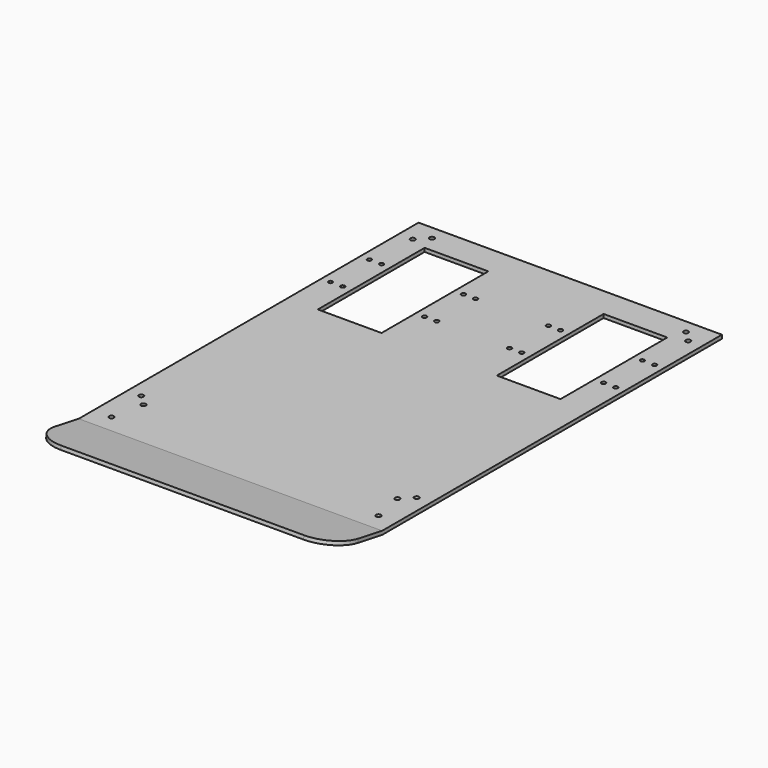
from build123d import *

# Parameters (mm, degrees)
F1_DEPTH = 500
F3_DEPTH = 23.191775822
F4_W     = 105
F4_H     = 220
F4_R     = 3.5
F4_R_2   = 4
F5_DEPTH = 6.001
F6_R     = 4
F7_DEPTH = 6.001


with BuildPart() as f1:
    # F0 (on Right) → F1 (new body)
    with BuildSketch(Plane.YZ):
        Polygon((700, 0), (0, 0), (-98.4807753012, 17.3648177667), (-99.5226643672, 11.4559712486), (0, -6), (700, -6), align=None)
    extrude(amount=F1_DEPTH)

    # F2 (on face) → F3 (cut, through all)
    with BuildSketch(Plane(origin=(0, 0, 0), x_dir=(1, 0, 0), z_dir=(0, 0.1736481777, 0.984807753))):
        with BuildLine():
            Line((0, -100), (50, -100))
            ThreePointArc((50, -100), (14.6446609407, -85.3553390593), (0, -50))
            Line((0, -50), (0, -100))
        make_face()
        with BuildLine():
            ThreePointArc((500, -50), (485.3553390593, -85.3553390593), (450, -100))
            Line((450, -100), (500, -100))
            Line((500, -100), (500, -50))
        make_face()
    extrude(amount=-F3_DEPTH, mode=Mode.SUBTRACT)

    # F4 (on face) → F5 (cut, through all)
    with BuildSketch(Plane.XY):
        with Locations((102.5, 540)):
            Rectangle(F4_W, F4_H)
        with Locations((35, 500)):
            Circle(F4_R)
        with Locations((15, 500)):
            Circle(F4_R)
        with Locations((35, 580)):
            Circle(F4_R)
        with Locations((15, 580)):
            Circle(F4_R)
        with Locations((190, 500)):
            Circle(F4_R)
        with Locations((170, 500)):
            Circle(F4_R)
        with Locations((190, 580)):
            Circle(F4_R)
        with Locations((170, 580)):
            Circle(F4_R)
        with Locations((465, 500)):
            Circle(F4_R)
        with Locations((485, 500)):
            Circle(F4_R)
        with Locations((485, 580)):
            Circle(F4_R)
        with Locations((310, 500)):
            Circle(F4_R)
        with Locations((465, 580)):
            Circle(F4_R)
        with Locations((330, 500)):
            Circle(F4_R)
        with Locations((330, 580)):
            Circle(F4_R)
        with Locations((310, 580)):
            Circle(F4_R)
        with Locations((397.5, 540)):
            Rectangle(F4_W, F4_H)
        with Locations((30, 30)):
            Circle(F4_R_2)
        with Locations((470, 30)):
            Circle(F4_R_2)
    extrude(amount=-F5_DEPTH, mode=Mode.SUBTRACT)

    # F6 (on face) → F7 (cut, through all)
    with BuildSketch(Plane.XY):
        with Locations((23, 100)):
            Circle(F6_R)
        with Locations((40.6847405975, 82.3152594025)):
            Circle(F6_R)
        with Locations((23, 659.3152594025)):
            Circle(F6_R)
        with Locations((40.6847405975, 677)):
            Circle(F6_R)
        with Locations((459.3152594025, 677)):
            Circle(F6_R)
        with Locations((477, 659.3152594025)):
            Circle(F6_R)
        with Locations((477, 100)):
            Circle(F6_R)
        with Locations((459.3152594025, 82.3152594025)):
            Circle(F6_R)
    extrude(amount=-F7_DEPTH, mode=Mode.SUBTRACT)


solid = f1.part
